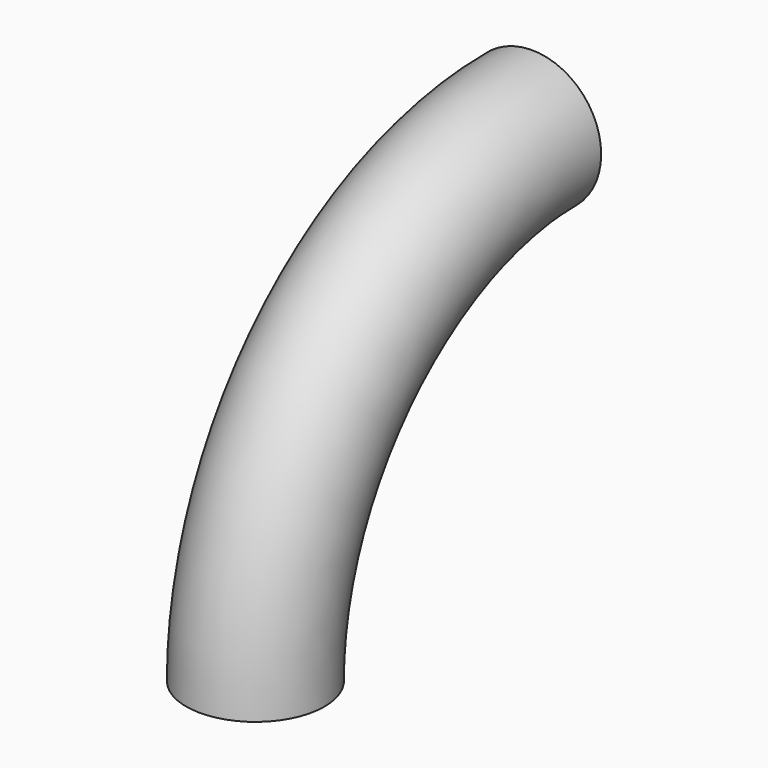
from build123d import *

# Parameters (mm, degrees)
F1_R = 10


with BuildPart() as f2:
    # F2: sweep along a path in F0
    with BuildLine(Plane.YZ) as f2_path:
        ThreePointArc((0, 50), (-35.355339, 35.355339), (-50, 0))
    # F1 (on Front) → F2 (sweep)
    with BuildSketch(Plane.XZ):
        with Locations((0, 50)):
            Circle(F1_R)
    sweep(path=f2_path.line)


solid = f2.part
